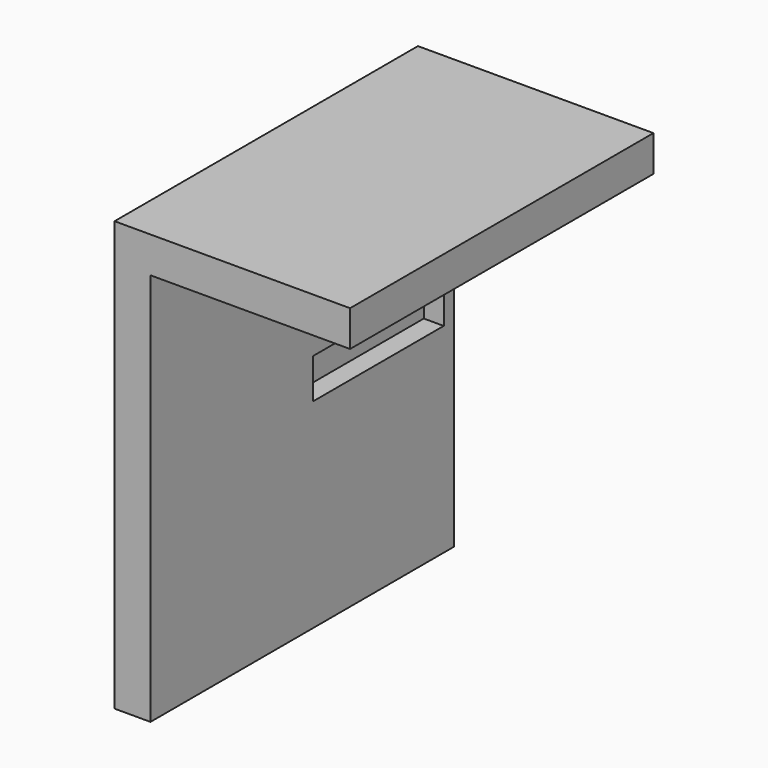
from build123d import *

# Parameters (mm, degrees)
F1_DEPTH = 190
F2_W     = 81.871287
F2_H     = 20
F3_DEPTH = 10


with BuildPart() as f1:
    # F0 (on Front) → F1 (new body)
    with BuildSketch(Plane.XZ):
        Polygon((-8.672725, 215), (-8.672725, 0), (9.327275, 0), (9.327275, 197), (109.327275, 197), (109.327275, 215), align=None)
    extrude(amount=F1_DEPTH)

    # F2 (on face) → F3 (cut)
    with BuildSketch(Plane.YZ.offset(9.327275)):
        with Locations((-47.264848, 110)):
            Rectangle(F2_W, F2_H)
    extrude(amount=-F3_DEPTH, mode=Mode.SUBTRACT)


solid = f1.part
